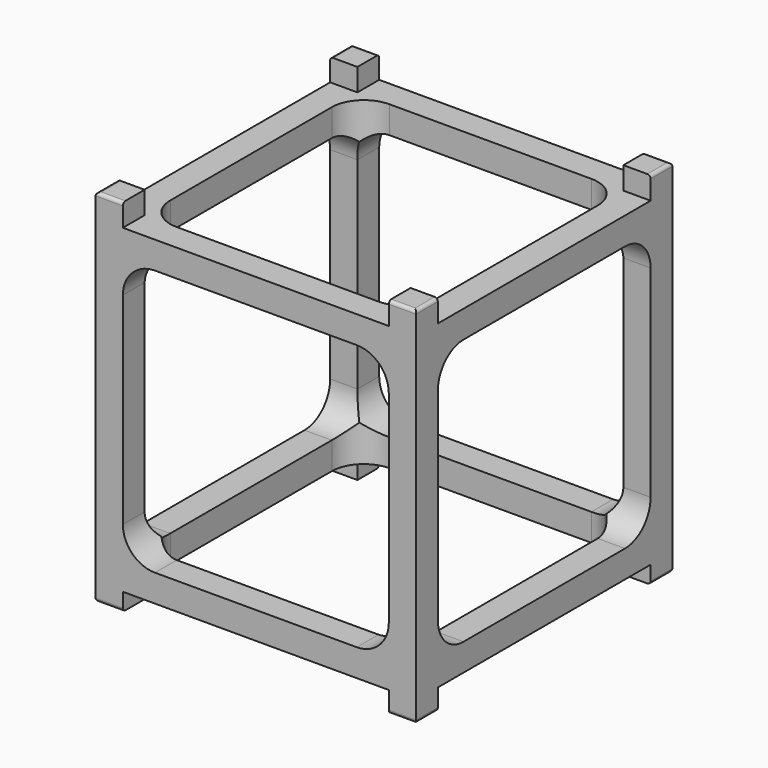
from build123d import *

# Parameters (mm, degrees)
F0_W      = 100
F0_H      = 100
F1_DEPTH  = 113.5
F3_DEPTH  = 25
F4_DEPTH  = 120
F5_W      = 83
F5_H      = 6.5
F5_H_2    = 7
F6_DEPTH  = 105
F7_W      = 83
F7_H      = 7
F7_H_2    = 6.5
F8_DEPTH  = 105
F9_DEPTH  = 1
F10_R     = 1
F11_R     = 2.5
F12_DEPTH = 19


with BuildPart() as f1:
    # F0 (on Top) → F1 (new body)
    with BuildSketch(Plane.XY):
        Rectangle(F0_W, F0_H)
    extrude(amount=F1_DEPTH)

    # F2 (on Top) → F3 (join)
    with BuildSketch(Plane.XY):
        with BuildLine():
            Line((31.5, 41.5), (-31.5, 41.5))
            ThreePointArc((-31.5, 41.5), (-38.5710678119, 38.5710678119), (-41.5, 31.5))
            Line((-41.5, 31.5), (-41.5, -31.5))
            ThreePointArc((-41.5, -31.5), (-38.5710678119, -38.5710678119), (-31.5, -41.5))
            Line((-31.5, -41.5), (31.5, -41.5))
            ThreePointArc((31.5, -41.5), (38.5710678119, -38.5710678119), (41.5, -31.5))
            Line((41.5, -31.5), (41.5, 31.5))
            ThreePointArc((41.5, 31.5), (38.5710678119, 38.5710678119), (31.5, 41.5))
        make_face()
    extrude(amount=F3_DEPTH)

    # F2 (on Top) → F4 (cut)
    with BuildSketch(Plane.XY):
        with BuildLine():
            Line((31.5, 41.5), (-31.5, 41.5))
            ThreePointArc((-31.5, 41.5), (-38.5710678119, 38.5710678119), (-41.5, 31.5))
            Line((-41.5, 31.5), (-41.5, -31.5))
            ThreePointArc((-41.5, -31.5), (-38.5710678119, -38.5710678119), (-31.5, -41.5))
            Line((-31.5, -41.5), (31.5, -41.5))
            ThreePointArc((31.5, -41.5), (38.5710678119, -38.5710678119), (41.5, -31.5))
            Line((41.5, -31.5), (41.5, 31.5))
            ThreePointArc((41.5, 31.5), (38.5710678119, 38.5710678119), (31.5, 41.5))
        make_face()
    extrude(amount=F4_DEPTH, mode=Mode.SUBTRACT)

    # F5 (on face) → F6 (cut)
    with BuildSketch(Plane(origin=(-50, 0, 0), x_dir=(0, -1, 0), z_dir=(-1, 0, 0))):
        with BuildLine():
            ThreePointArc((-41.5, 25), (-38.5710678119, 17.9289321881), (-31.5, 15))
            Line((-31.5, 15), (31.5, 15))
            ThreePointArc((31.5, 15), (38.5710678119, 17.9289321881), (41.5, 25))
            Line((41.5, 25), (41.5, 88))
            ThreePointArc((41.5, 88), (38.5710678119, 95.0710678119), (31.5, 98))
            Line((31.5, 98), (-31.5, 98))
            ThreePointArc((-31.5, 98), (-38.5710678119, 95.0710678119), (-41.5, 88))
            Line((-41.5, 88), (-41.5, 25))
        make_face()
        with Locations((0, 3.25)):
            Rectangle(F5_W, F5_H)
        with Locations((0, 110)):
            Rectangle(F5_W, F5_H_2)
    extrude(amount=-F6_DEPTH, mode=Mode.SUBTRACT)

    # F7 (on face) → F8 (cut)
    with BuildSketch(Plane.XZ.offset(50)):
        with Locations((0, 110)):
            Rectangle(F7_W, F7_H)
        with BuildLine():
            ThreePointArc((-31.5, 98), (-38.5710678119, 95.0710678119), (-41.5, 88))
            Line((-41.5, 88), (-41.5, 25))
            ThreePointArc((-41.5, 25), (-38.5710678119, 17.9289321881), (-31.5, 15))
            Line((-31.5, 15), (31.5, 15))
            ThreePointArc((31.5, 15), (38.5710678119, 17.9289321881), (41.5, 25))
            Line((41.5, 25), (41.5, 88))
            ThreePointArc((41.5, 88), (38.5710678119, 95.0710678119), (31.5, 98))
            Line((31.5, 98), (-31.5, 98))
        make_face()
        with Locations((0, 3.25)):
            Rectangle(F7_W, F7_H_2)
    extrude(amount=-F8_DEPTH, mode=Mode.SUBTRACT)

    # F9 (cut): faces of the model
    f9_faces = [f1.faces().sort_by_distance(p)[0] for p in [
        (-45.75, -45.75, 0),
        (-45.75, -45.75, 113.5),
        (45.75, 45.75, 113.5),
        (45.75, 45.75, 0),
    ]]
    extrude(f9_faces, amount=-F9_DEPTH, dir=(0, 0, -1), mode=Mode.SUBTRACT)

    # F10
    f10_edges = [f1.edges().sort_by_distance(p)[0] for p in [
        (45.75, -50, 0),
        (50, -45.75, 0),
        (50, -45.75, 113.5),
        (45.75, -50, 113.5),
        (50, 45.75, 113.5),
        (45.75, 50, 113.5),
        (50, 45.75, 1),
        (45.75, 50, 1),
        (-45.75, 50, 0),
        (-50, 45.75, 0),
        (-50, -45.75, 1),
        (-45.75, -50, 1),
        (-50, -45.75, 113.5),
        (-45.75, -50, 113.5),
        (-50, 45.75, 113.5),
        (-45.75, 50, 113.5),
    ]]
    fillet(f10_edges, radius=F10_R)

    # F11 (on face) → F12 (cut)
    with BuildSketch(Plane(origin=(0, 0, 1), x_dir=(1, 0, 0), z_dir=(0, 0, -1))):
        with Locations((-45.75, 45.75)):
            Circle(F11_R)
        with Locations((45.75, -45.75)):
            Circle(F11_R)
    extrude(amount=-F12_DEPTH, mode=Mode.SUBTRACT)


solid = f1.part
